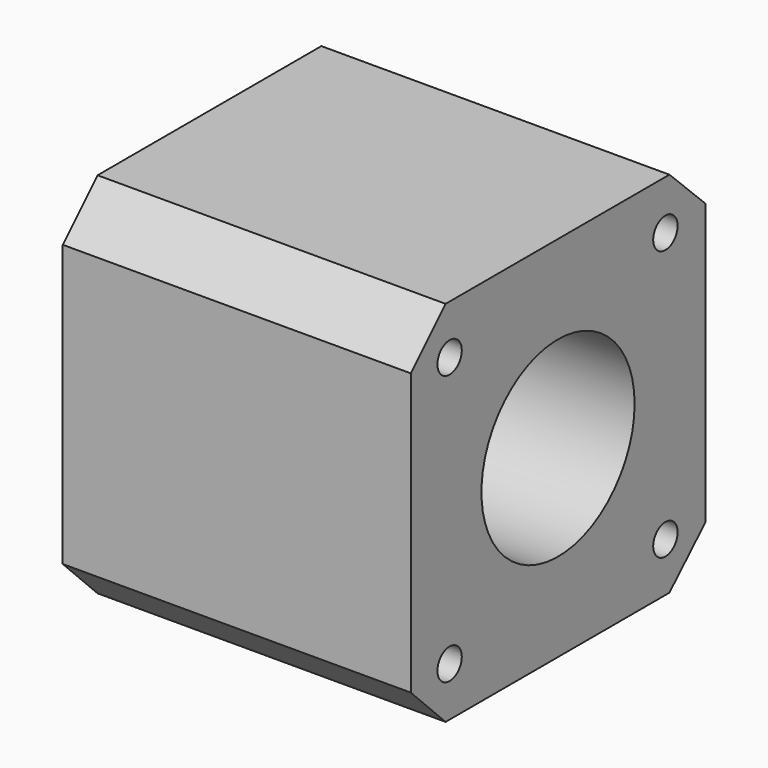
from build123d import *

# Parameters (mm, degrees)
F0_R     = 1.75
F0_R_2   = 11
F1_DEPTH = 40


with BuildPart() as f1:
    # F0 (on Right) → F1 (new body)
    with BuildSketch(Plane.YZ):
        Polygon((-46.3, -37.3), (-41.3, -42.3), (-9.15, -42.3), (-4, -37.3), (-4, -5), (-9.15, 0), (-41.3, 0), (-46.3, -5), align=None)
        with Locations((-40.725, -36.65)):
            Circle(F0_R, mode=Mode.SUBTRACT)
        with Locations((-9.725, -36.65)):
            Circle(F0_R, mode=Mode.SUBTRACT)
        with Locations((-40.725, -5.65)):
            Circle(F0_R, mode=Mode.SUBTRACT)
        with Locations((-25.15, -21.15)):
            Circle(F0_R_2, mode=Mode.SUBTRACT)
        with Locations((-9.725, -5.65)):
            Circle(F0_R, mode=Mode.SUBTRACT)
    extrude(amount=-F1_DEPTH)


solid = f1.part
